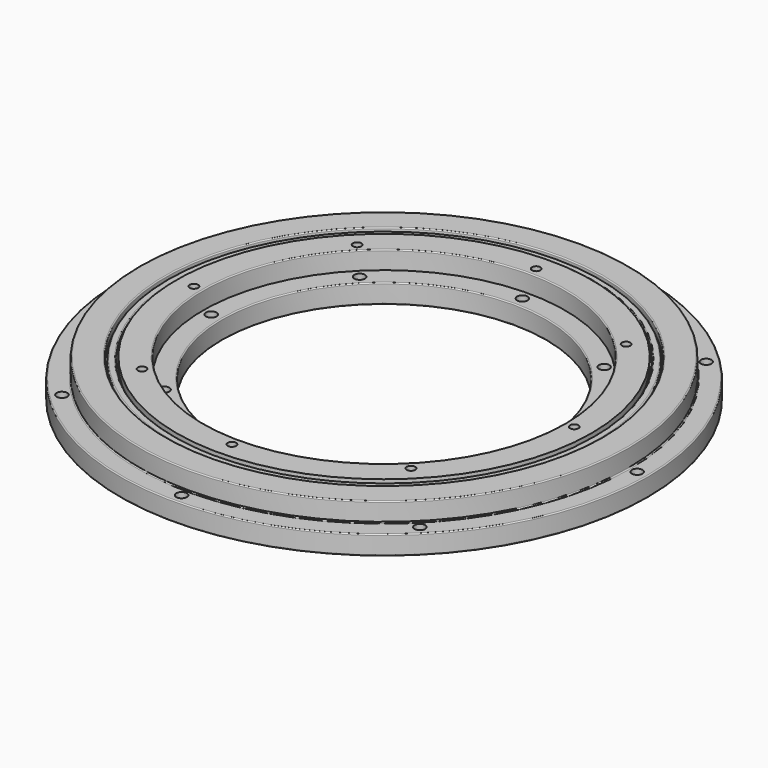
from build123d import *

# Parameters (mm, degrees)
F0_W      = 1.6
F0_H      = 8
F6_R      = 3.125
F7_DEPTH  = 1.5
F8_COUNT  = 8
F9_R      = 1
F9_R_2    = 1.25
F10_DEPTH = 9.001
F11_R     = 0.25
F11_2_R   = 0.25
F11_3_R   = 0.25
F11_4_R   = 0.25


with BuildPart() as f1:
    # F0 (on Front) → F1 (revolve)
    with BuildSketch(Plane.XZ):
        with BuildLine():
            Line((51.25, 4.5), (51.25, 2.7271780287))
            ThreePointArc((51.25, 2.7271780287), (53, 0), (51.25, -2.7271780287))
            Line((51.25, -2.7271780287), (51.25, -4.5))
            Line((51.25, -4.5), (62, -4.5))
            Line((62, -4.5), (62, 0))
            Line((62, 0), (57.5, 0))
            Line((57.5, 0), (57.5, 4.5))
            Line((57.5, 4.5), (51.25, 4.5))
        make_face()
    revolve(axis=Axis((0, 0, -0.1202635467), (0, 0, -1)))


with BuildPart() as f1b:
    # F0 (on Front) → F1, piece 2 (revolve)
    with BuildSketch(Plane.XZ):
        with BuildLine():
            ThreePointArc((48.75, -2.7271780287), (47.4751237654, -1.6201851746), (47, 0))
            Line((47, 0), (38, 0))
            Line((38, 0), (38, -4.5))
            Line((38, -4.5), (48.75, -4.5))
            Line((48.75, -4.5), (48.75, -2.7271780287))
        make_face()
    revolve(axis=Axis((0, 0, -0.1202635467), (0, 0, -1)))


with BuildPart() as f1c:
    # F0 (on Front) → F1, piece 3 (revolve)
    with BuildSketch(Plane.XZ):
        with BuildLine():
            ThreePointArc((47.0104348142, 0.25), (47.5448867669, 1.7240704778), (48.75, 2.7271780287))
            Line((48.75, 2.7271780287), (48.75, 4.5))
            Line((48.75, 4.5), (42.5, 4.5))
            Line((42.5, 4.5), (42.5, 0.25))
            Line((42.5, 0.25), (47.0104348142, 0.25))
        make_face()
    revolve(axis=Axis((0, 0, -0.1202635467), (0, 0, -1)))


with BuildPart() as f1d:
    # F0 (on Front) → F1, piece 4 (revolve)
    with BuildSketch(Plane.XZ):
        with Locations((50, 0)):
            Rectangle(F0_W, F0_H)
    revolve(axis=Axis((0, 0, -0.1202635467), (0, 0, -1)))

    # F8: F7 ×8 about axis
    f8_axis = Axis((0, 0, -0.1202635467), (0, 0, -1))


with BuildPart() as f3:
    # F2 (on Front) → F3 (revolve)
    with BuildSketch(Plane.XZ):
        with BuildLine():
            ThreePointArc((50, -3), (53, 0), (50, 3))
            Line((50, 3), (50, -3))
        make_face()
    revolve(axis=Axis((50, 0, 0), (0, 0, -1)))


with BuildPart() as f7:
    # F6 (on plane+point) → F7 (new body, symmetric)
    with BuildSketch(Plane.YZ.offset(50)):
        Circle(F6_R)
    extrude(amount=F7_DEPTH, both=True)


with BuildPart() as f1d_1:
    add(f1d.part)
    for i in range(1, F8_COUNT):
        add(f7.part.rotate(f8_axis, i * 360 / F8_COUNT), mode=Mode.SUBTRACT)

    # F8#seed: cut F7
    add(f7.part, mode=Mode.SUBTRACT)

    # F11#4
    f11_4_edges = [f1d_1.edges().sort_by_distance(p)[0] for p in [
        (-49.2, 0, 4),
        (-50.8, 0, 4),
        (-49.2, 0, -4),
        (-50.8, 0, -4),
    ]]
    fillet(f11_4_edges, radius=F11_4_R)


with BuildPart() as f10_tool:
    # F9 (on face) → F10 (new body, through all)
    with BuildSketch(Plane.XY.offset(4.5)):
        with Locations((44.6703471243, 0)):
            Circle(F9_R)
        with Locations((40.6082384288, 0)):
            Circle(F9_R_2)
        with Locations((59.4492554665, 0)):
            Circle(F9_R_2)
        with Locations((28.7143607651, 28.7143607651)):
            Circle(F9_R_2)
        with Locations((31.5867053696, 31.5867053696)):
            Circle(F9_R)
        with Locations((42.0369716768, 42.0369716768)):
            Circle(F9_R_2)
        with Locations((0, 40.6082384288)):
            Circle(F9_R_2)
        with Locations((0, 44.6703471243)):
            Circle(F9_R)
        with Locations((0, 59.4492554665)):
            Circle(F9_R_2)
        with Locations((-28.7143607651, 28.7143607651)):
            Circle(F9_R_2)
        with Locations((-31.5867053696, 31.5867053696)):
            Circle(F9_R)
        with Locations((-42.0369716768, 42.0369716768)):
            Circle(F9_R_2)
        with Locations((-40.6082384288, 0)):
            Circle(F9_R_2)
        with Locations((-44.6703471243, 0)):
            Circle(F9_R)
        with Locations((-59.4492554665, 0)):
            Circle(F9_R_2)
        with Locations((-28.7143607651, -28.7143607651)):
            Circle(F9_R_2)
        with Locations((-31.5867053696, -31.5867053696)):
            Circle(F9_R)
        with Locations((-42.0369716768, -42.0369716768)):
            Circle(F9_R_2)
        with Locations((0, -40.6082384288)):
            Circle(F9_R_2)
        with Locations((0, -44.6703471243)):
            Circle(F9_R)
        with Locations((0, -59.4492554665)):
            Circle(F9_R_2)
        with Locations((28.7143607651, -28.7143607651)):
            Circle(F9_R_2)
        with Locations((31.5867053696, -31.5867053696)):
            Circle(F9_R)
        with Locations((42.0369716768, -42.0369716768)):
            Circle(F9_R_2)
    extrude(amount=-F10_DEPTH)


with BuildPart() as f1_1:
    add(f1.part)

    # F10: cut by f10_tool
    add(f10_tool.part, mode=Mode.SUBTRACT)

    # F11
    f11_edges = [f1_1.edges().sort_by_distance(p)[0] for p in [
        (-57.5, 0, 0),
        (-57.5, 0, 4.5),
        (-51.25, 0, 4.5),
        (-62, 0, 0),
        (-51.25, 0, -4.5),
        (-62, 0, -4.5),
    ]]
    fillet(f11_edges, radius=F11_R)


with BuildPart() as f1b_1:
    add(f1b.part)

    # F10: cut by f10_tool
    add(f10_tool.part, mode=Mode.SUBTRACT)

    # F11#2
    f11_2_edges = [f1b_1.edges().sort_by_distance(p)[0] for p in [
        (-38, 0, 0),
        (-38, 0, -4.5),
        (-48.75, 0, -4.5),
    ]]
    fillet(f11_2_edges, radius=F11_2_R)


with BuildPart() as f1c_1:
    add(f1c.part)

    # F10: cut by f10_tool
    add(f10_tool.part, mode=Mode.SUBTRACT)

    # F11#3
    f11_3_edges = [f1c_1.edges().sort_by_distance(p)[0] for p in [
        (-42.5, 0, 4.5),
    ]]
    fillet(f11_3_edges, radius=F11_3_R)


solid = Compound([f3.part, f1d_1.part, f1_1.part, f1b_1.part, f1c_1.part])
